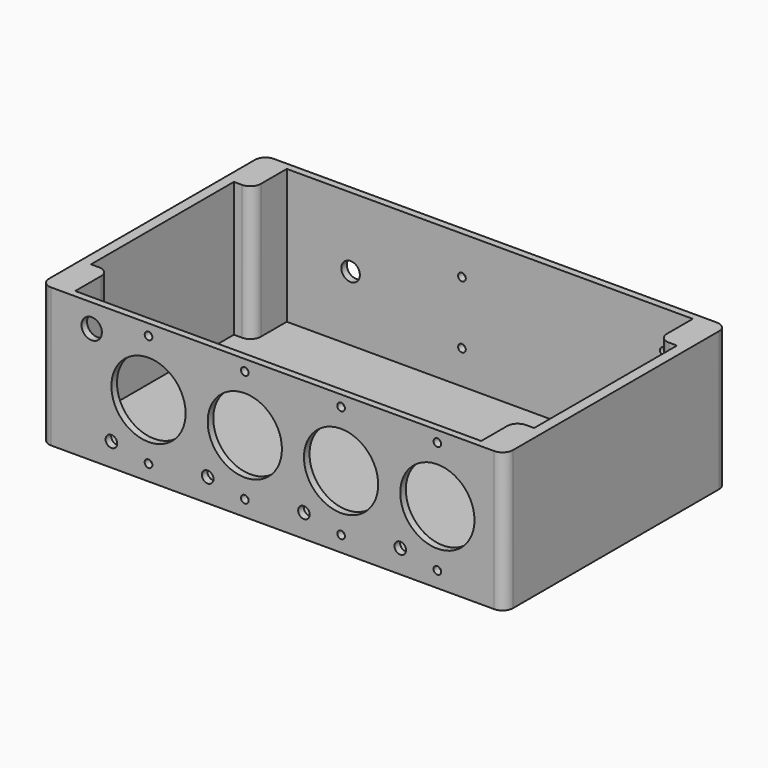
from build123d import *

# Parameters (mm, degrees)
SKETCH_W        = 200
SKETCH_H        = 120
PAD_DEPTH       = 60
SKETCH002_R     = 16
POCKET001_DEPTH = 5
POCKET_DEPTH    = 58
SKETCH004_R     = 1.65
HOLE_DEPTH      = 4
SKETCH005_R     = 4
POCKET002_DEPTH = 3
SKETCH006_R     = 4.4
HOLE001_DEPTH   = 22.356213
HOLE001_TIPS_R  = 4.4
SKETCH007_R     = 2.5
HOLE002_DEPTH   = 25
FILLET_R        = 4.5
FILLET001_R     = 4.5
SKETCH008_R     = 1.65
HOLE003_DEPTH   = 9.00858
HOLE003_TIPS_R  = 1.65


with BuildPart() as part:
    # Sketch → Pad (new body)
    with BuildSketch(Plane.XY):
        Rectangle(SKETCH_W, SKETCH_H)
    extrude(amount=PAD_DEPTH)

    # Sketch002 (on Face3 of Pad) → Pocket001 (cut)
    with BuildSketch(Plane.XZ.offset(60)):
        with Locations((-53.5, 31)):
            Circle(SKETCH002_R)
        with Locations((-12, 31)):
            Circle(SKETCH002_R)
        with Locations((29.5, 31)):
            Circle(SKETCH002_R)
        with Locations((71, 31)):
            Circle(SKETCH002_R)
    extrude(amount=-POCKET001_DEPTH, mode=Mode.SUBTRACT)

    # Sketch003 (on Face6 of Pad) → Pocket (cut)
    with BuildSketch(Plane.XY.offset(60)):
        Polygon((-87.5, 57), (87.5, 57), (87.5, 38.5), (95.5, 38.5), (95.5, -38.5), (87.5, -38.5), (87.5, -57), (-87.5, -57), (-87.5, -38.5), (-95.5, -38.5), (-95.5, 38.5), (-87.5, 38.5), align=None)
    extrude(amount=-POCKET_DEPTH, mode=Mode.SUBTRACT)

    # Sketch004 (on Face1 of Pocket) → Hole (cut)
    with BuildSketch(Plane(origin=(0, 60, 0), x_dir=(-1, 0, 0), z_dir=(0, 1, 0))):
        with Locations((-75, 43.5)):
            Circle(SKETCH004_R)
        with Locations((12, 43.5)):
            Circle(SKETCH004_R)
        with Locations((12, 16.5)):
            Circle(SKETCH004_R)
        with Locations((-75, 16.5)):
            Circle(SKETCH004_R)
    extrude(amount=-HOLE_DEPTH, mode=Mode.SUBTRACT)

    # Sketch005 (on Face1 of Hole) → Pocket002 (cut)
    with BuildSketch(Plane(origin=(0, 60, 0), x_dir=(-1, 0, 0), z_dir=(0, 1, 0))):
        with Locations((60, 30)):
            Circle(SKETCH005_R)
    extrude(amount=-POCKET002_DEPTH, mode=Mode.SUBTRACT)

    # Sketch006 (on Face11 of Pocket002) → Hole001 (cut)
    with BuildSketch(Plane.XZ.offset(60)):
        with Locations((-78, 50)):
            Circle(SKETCH006_R)
    extrude(amount=-HOLE001_DEPTH, mode=Mode.SUBTRACT)

    # Hole001 tips → Hole001 tip 1 section 0
    with BuildSketch(Plane.XZ.offset(37.643787), mode=Mode.PRIVATE) as hole001_tip_1_s0:
        with Locations((-78, 50)):
            Circle(HOLE001_TIPS_R)
    loft([hole001_tip_1_s0.sketch, Vertex(-78, -35, 50)], mode=Mode.SUBTRACT)

    # Sketch007 (on Face11 of Hole001) → Hole002 (cut)
    with BuildSketch(Plane.XZ.offset(60)):
        with Locations((-69.5, 10)):
            Circle(SKETCH007_R)
        with Locations((-28, 10)):
            Circle(SKETCH007_R)
        with Locations((13.5, 10)):
            Circle(SKETCH007_R)
        with Locations((55, 10)):
            Circle(SKETCH007_R)
    extrude(amount=-HOLE002_DEPTH, mode=Mode.SUBTRACT)

    # Fillet
    fillet_edges = [part.edges().sort_by_distance(p)[0] for p in [
        (-100, -60, 30),
        (-100, 60, 30),
        (100, -60, 30),
        (100, 60, 30),
    ]]
    fillet(fillet_edges, radius=FILLET_R)

    # Fillet001
    fillet001_edges = [part.edges().sort_by_distance(p)[0] for p in [
        (87.5, 38.5, 31),
        (-87.5, 38.5, 31),
        (-87.5, -38.5, 31),
        (87.5, -38.5, 31),
    ]]
    fillet(fillet001_edges, radius=FILLET001_R)

    # Sketch008 (on Face11 of Hole002) → Hole003 (cut)
    with BuildSketch(Plane.XZ.offset(60)):
        with Locations((-53.5, 55.25)):
            Circle(SKETCH008_R)
        with Locations((-12, 55.25)):
            Circle(SKETCH008_R)
        with Locations((29.5, 55.25)):
            Circle(SKETCH008_R)
        with Locations((71, 55.25)):
            Circle(SKETCH008_R)
        with Locations((71, 6.75)):
            Circle(SKETCH008_R)
        with Locations((29.5, 6.75)):
            Circle(SKETCH008_R)
        with Locations((-12, 6.75)):
            Circle(SKETCH008_R)
        with Locations((-53.5, 6.75)):
            Circle(SKETCH008_R)
    extrude(amount=-HOLE003_DEPTH, mode=Mode.SUBTRACT)

    # Hole003 tips → Hole003 tip 1 section 0
    with BuildSketch(Plane.XZ.offset(50.99142), mode=Mode.PRIVATE) as hole003_tip_1_s0:
        with Locations((-53.5, 55.25)):
            Circle(HOLE003_TIPS_R)
    loft([hole003_tip_1_s0.sketch, Vertex(-53.5, -50, 55.25)], mode=Mode.SUBTRACT)

    # Hole003 tips → Hole003 tip 2 section 0
    with BuildSketch(Plane.XZ.offset(50.99142), mode=Mode.PRIVATE) as hole003_tip_2_s0:
        with Locations((-12, 55.25)):
            Circle(HOLE003_TIPS_R)
    loft([hole003_tip_2_s0.sketch, Vertex(-12, -50, 55.25)], mode=Mode.SUBTRACT)

    # Hole003 tips → Hole003 tip 3 section 0
    with BuildSketch(Plane.XZ.offset(50.99142), mode=Mode.PRIVATE) as hole003_tip_3_s0:
        with Locations((29.5, 55.25)):
            Circle(HOLE003_TIPS_R)
    loft([hole003_tip_3_s0.sketch, Vertex(29.5, -50, 55.25)], mode=Mode.SUBTRACT)

    # Hole003 tips → Hole003 tip 4 section 0
    with BuildSketch(Plane.XZ.offset(50.99142), mode=Mode.PRIVATE) as hole003_tip_4_s0:
        with Locations((71, 55.25)):
            Circle(HOLE003_TIPS_R)
    loft([hole003_tip_4_s0.sketch, Vertex(71, -50, 55.25)], mode=Mode.SUBTRACT)

    # Hole003 tips → Hole003 tip 5 section 0
    with BuildSketch(Plane.XZ.offset(50.99142), mode=Mode.PRIVATE) as hole003_tip_5_s0:
        with Locations((71, 6.75)):
            Circle(HOLE003_TIPS_R)
    loft([hole003_tip_5_s0.sketch, Vertex(71, -50, 6.75)], mode=Mode.SUBTRACT)

    # Hole003 tips → Hole003 tip 6 section 0
    with BuildSketch(Plane.XZ.offset(50.99142), mode=Mode.PRIVATE) as hole003_tip_6_s0:
        with Locations((29.5, 6.75)):
            Circle(HOLE003_TIPS_R)
    loft([hole003_tip_6_s0.sketch, Vertex(29.5, -50, 6.75)], mode=Mode.SUBTRACT)

    # Hole003 tips → Hole003 tip 7 section 0
    with BuildSketch(Plane.XZ.offset(50.99142), mode=Mode.PRIVATE) as hole003_tip_7_s0:
        with Locations((-12, 6.75)):
            Circle(HOLE003_TIPS_R)
    loft([hole003_tip_7_s0.sketch, Vertex(-12, -50, 6.75)], mode=Mode.SUBTRACT)

    # Hole003 tips → Hole003 tip 8 section 0
    with BuildSketch(Plane.XZ.offset(50.99142), mode=Mode.PRIVATE) as hole003_tip_8_s0:
        with Locations((-53.5, 6.75)):
            Circle(HOLE003_TIPS_R)
    loft([hole003_tip_8_s0.sketch, Vertex(-53.5, -50, 6.75)], mode=Mode.SUBTRACT)


solid = part.part
